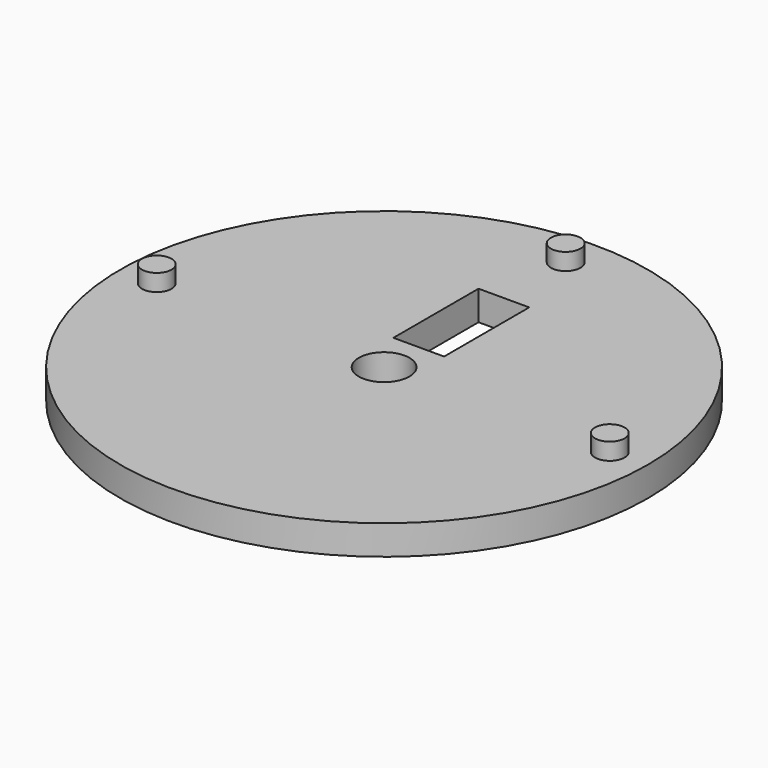
from build123d import *

# Parameters (mm, degrees)
F0_R     = 15.875
F1_DEPTH = 1.778
F3_R     = 0.889
F4_DEPTH = 1.016
F5_R     = 1.524
F5_W     = 3.048
F5_H     = 6.400035
F6_DEPTH = 2.22015


with BuildPart() as f1:
    # F0 (on Top) → F1 (new body)
    with BuildSketch(Plane.XY):
        Circle(F0_R)
    extrude(amount=-F1_DEPTH)

    # F3 (on face) → F4 (join)
    with BuildSketch(Plane.XY):
        with Locations((0, 13.652203)):
            Circle(F3_R)
        with Locations((-13.659894, -0.015021)):
            Circle(F3_R)
        with Locations((13.674476, -0.124876)):
            Circle(F3_R)
    extrude(amount=F4_DEPTH)

    # F5 (on face) → F6 (cut)
    with BuildSketch(Plane.XY):
        Circle(F5_R)
        with Locations((0, 5.805492)):
            Rectangle(F5_W, F5_H)
    extrude(amount=-F6_DEPTH, mode=Mode.SUBTRACT)


solid = f1.part
